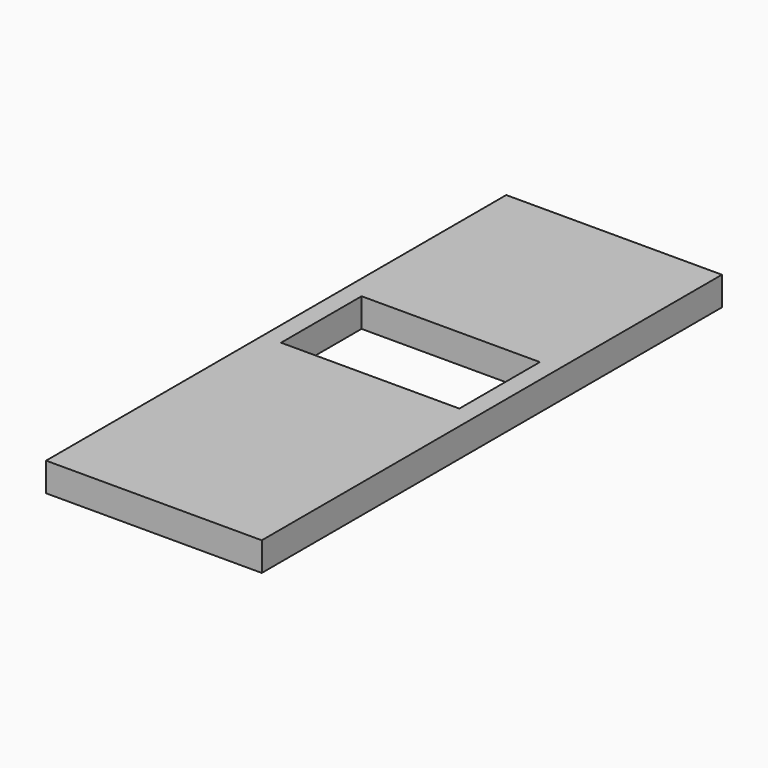
from build123d import *

# Parameters (mm, degrees)
BOX004_W     = 12.4
BOX004_H     = 7
BOX004_DEPTH = 2
BOX003_W     = 15
BOX003_H     = 40
BOX003_DEPTH = 2


with BuildPart() as cube004:
    # Box004 → Box004 (new body)
    with BuildSketch(Plane(origin=(-0.2, 1.5, 0), x_dir=(1, 0, 0), z_dir=(0, 0, 1))):
        with Locations((6.2, 3.5)):
            Rectangle(BOX004_W, BOX004_H)
    extrude(amount=BOX004_DEPTH)


with BuildPart() as obj1:
    # Box003 → Box003 (new body)
    with BuildSketch(Plane(origin=(-1.5, -17.3, 0), x_dir=(1, 0, 0), z_dir=(0, 0, 1))):
        with Locations((7.5, 20)):
            Rectangle(BOX003_W, BOX003_H)
    extrude(amount=BOX003_DEPTH)

    # Cut006: cut Cube004
    add(cube004.part, mode=Mode.SUBTRACT)


solid = obj1.part
